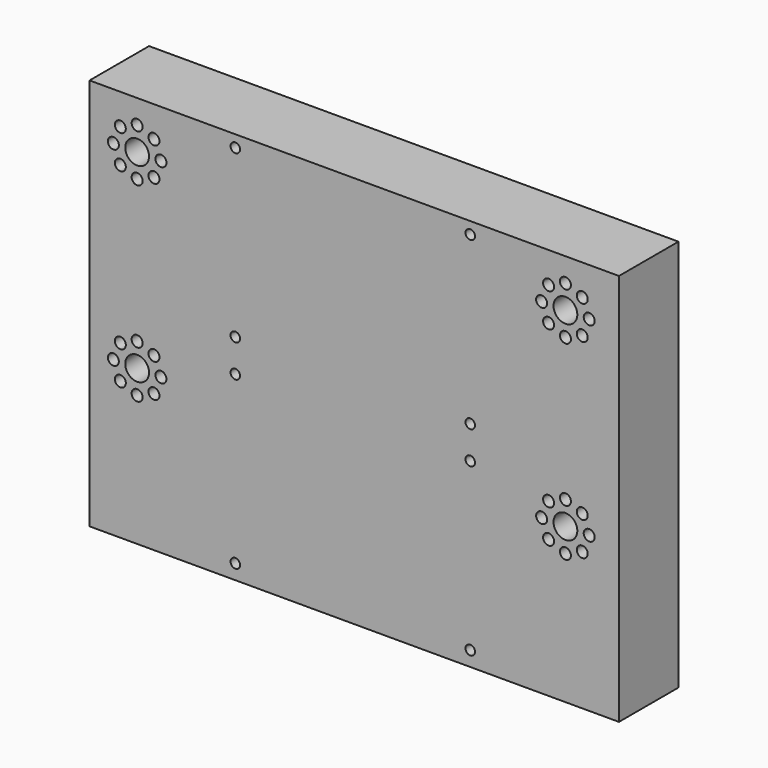
from build123d import *

# Parameters (mm, degrees)
F0_W     = 178
F0_H     = 132
F0_R     = 1.6
F0_R_2   = 1.85
F0_R_3   = 4
F1_DEPTH = 25


with BuildPart() as f1:
    # F0 (on Front) → F1 (new body)
    with BuildSketch(Plane.XZ):
        with Locations((0, -66)):
            Rectangle(F0_W, F0_H)
        with Locations((-40, -127)):
            Circle(F0_R, mode=Mode.SUBTRACT)
        with Locations((-78.656854, -85.656854)):
            Circle(F0_R_2, mode=Mode.SUBTRACT)
        with Locations((-73, -88)):
            Circle(F0_R_2, mode=Mode.SUBTRACT)
        with Locations((-67.343146, -85.656854)):
            Circle(F0_R_2, mode=Mode.SUBTRACT)
        with Locations((-81, -80)):
            Circle(F0_R_2, mode=Mode.SUBTRACT)
        with Locations((-78.656854, -74.343146)):
            Circle(F0_R_2, mode=Mode.SUBTRACT)
        with Locations((-73, -80)):
            Circle(F0_R_3, mode=Mode.SUBTRACT)
        with Locations((-67.343146, -74.343146)):
            Circle(F0_R_2, mode=Mode.SUBTRACT)
        with Locations((-73, -72)):
            Circle(F0_R_2, mode=Mode.SUBTRACT)
        with Locations((-65, -80)):
            Circle(F0_R_2, mode=Mode.SUBTRACT)
        with Locations((-40, -71)):
            Circle(F0_R, mode=Mode.SUBTRACT)
        with Locations((39, -127)):
            Circle(F0_R, mode=Mode.SUBTRACT)
        with Locations((39, -71)):
            Circle(F0_R, mode=Mode.SUBTRACT)
        with Locations((65.343146, -85.656854)):
            Circle(F0_R_2, mode=Mode.SUBTRACT)
        with Locations((71, -88)):
            Circle(F0_R_2, mode=Mode.SUBTRACT)
        with Locations((76.656854, -85.656854)):
            Circle(F0_R_2, mode=Mode.SUBTRACT)
        with Locations((63, -80)):
            Circle(F0_R_2, mode=Mode.SUBTRACT)
        with Locations((65.343146, -74.343146)):
            Circle(F0_R_2, mode=Mode.SUBTRACT)
        with Locations((71, -80)):
            Circle(F0_R_3, mode=Mode.SUBTRACT)
        with Locations((76.656854, -74.343146)):
            Circle(F0_R_2, mode=Mode.SUBTRACT)
        with Locations((79, -80)):
            Circle(F0_R_2, mode=Mode.SUBTRACT)
        with Locations((71, -72)):
            Circle(F0_R_2, mode=Mode.SUBTRACT)
        with Locations((-40, -60)):
            Circle(F0_R, mode=Mode.SUBTRACT)
        with Locations((-78.656854, -21.656854)):
            Circle(F0_R_2, mode=Mode.SUBTRACT)
        with Locations((-73, -24)):
            Circle(F0_R_2, mode=Mode.SUBTRACT)
        with Locations((-67.343146, -21.656854)):
            Circle(F0_R_2, mode=Mode.SUBTRACT)
        with Locations((-81, -16)):
            Circle(F0_R_2, mode=Mode.SUBTRACT)
        with Locations((-78.656854, -10.343146)):
            Circle(F0_R_2, mode=Mode.SUBTRACT)
        with Locations((-73, -16)):
            Circle(F0_R_3, mode=Mode.SUBTRACT)
        with Locations((-67.343146, -10.343146)):
            Circle(F0_R_2, mode=Mode.SUBTRACT)
        with Locations((-73, -8)):
            Circle(F0_R_2, mode=Mode.SUBTRACT)
        with Locations((-65, -16)):
            Circle(F0_R_2, mode=Mode.SUBTRACT)
        with Locations((-40, -4)):
            Circle(F0_R, mode=Mode.SUBTRACT)
        with Locations((39, -60)):
            Circle(F0_R, mode=Mode.SUBTRACT)
        with Locations((39, -4)):
            Circle(F0_R, mode=Mode.SUBTRACT)
        with Locations((65.343146, -21.656854)):
            Circle(F0_R_2, mode=Mode.SUBTRACT)
        with Locations((71, -24)):
            Circle(F0_R_2, mode=Mode.SUBTRACT)
        with Locations((76.656854, -21.656854)):
            Circle(F0_R_2, mode=Mode.SUBTRACT)
        with Locations((63, -16)):
            Circle(F0_R_2, mode=Mode.SUBTRACT)
        with Locations((65.343146, -10.343146)):
            Circle(F0_R_2, mode=Mode.SUBTRACT)
        with Locations((71, -16)):
            Circle(F0_R_3, mode=Mode.SUBTRACT)
        with Locations((76.656854, -10.343146)):
            Circle(F0_R_2, mode=Mode.SUBTRACT)
        with Locations((79, -16)):
            Circle(F0_R_2, mode=Mode.SUBTRACT)
        with Locations((71, -8)):
            Circle(F0_R_2, mode=Mode.SUBTRACT)
    extrude(amount=F1_DEPTH)


solid = f1.part
